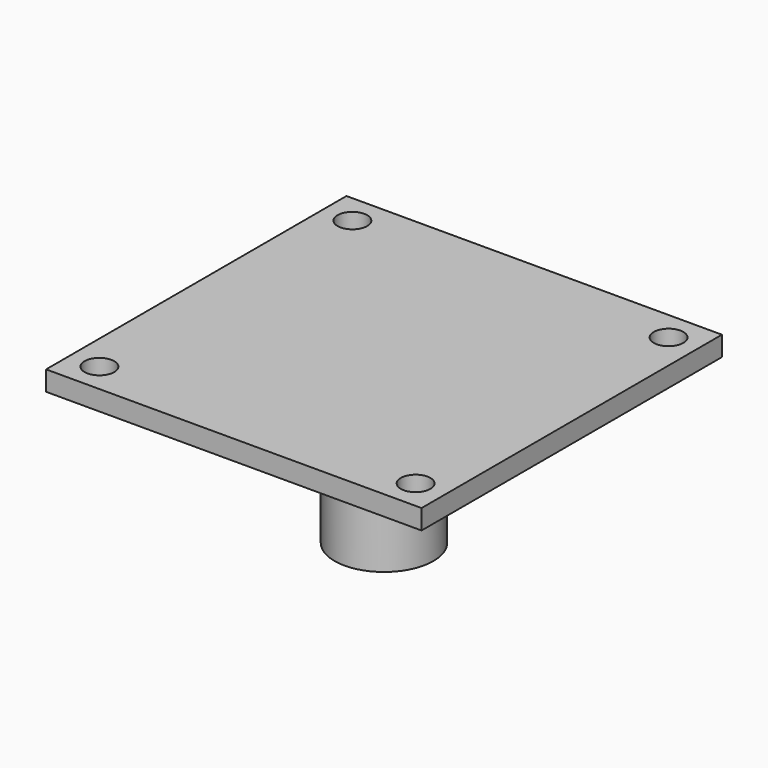
from build123d import *

# Parameters (mm, degrees)
F0_W      = 38
F0_H      = 38
F0_R      = 1.5
F1_DEPTH  = 2
F2_W      = 15
F2_H      = 15
F2_R      = 5
F3_DEPTH  = 5
F3_FACE_R = 5
F4_DEPTH  = 15


with BuildPart() as f1:
    # F0 (on Top) → F1 (new body)
    with BuildSketch(Plane.XY):
        Rectangle(F0_W, F0_H)
        with Locations((-16, -16)):
            Circle(F0_R, mode=Mode.SUBTRACT)
        with Locations((16, -16)):
            Circle(F0_R, mode=Mode.SUBTRACT)
        with Locations((-16, 16)):
            Circle(F0_R, mode=Mode.SUBTRACT)
        with Locations((16, 16)):
            Circle(F0_R, mode=Mode.SUBTRACT)
    extrude(amount=F1_DEPTH)

    # F2 (on face) → F3 (join)
    with BuildSketch(Plane(origin=(0, 0, 0), x_dir=(1, 0, 0), z_dir=(0, 0, -1))):
        Rectangle(F2_W, F2_H)
        Circle(F2_R, mode=Mode.SUBTRACT)
    extrude(amount=F3_DEPTH)

    # F3_face (on face) → F4 (join)
    with BuildSketch(Plane(origin=(0, 0, 0), x_dir=(1, 0, 0), z_dir=(0, 0, -1))):
        Circle(F3_FACE_R)
    extrude(amount=F4_DEPTH)


solid = f1.part
